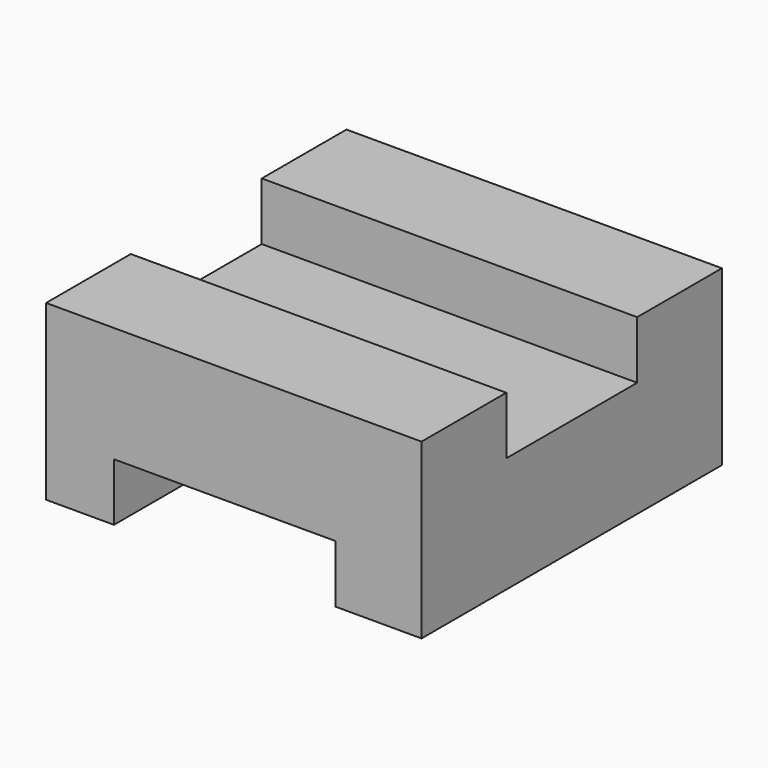
from build123d import *

# Parameters (mm, degrees)
F0_W     = 990.6
F0_H     = 990.6
F1_DEPTH = 152.4
F2_W     = 990.6
F2_H     = 279.4
F3_DEPTH = 152.4
F4_W     = 179.104452
F4_H     = 990.6
F4_W_2   = 227.295548
F5_DEPTH = 152.4


with BuildPart() as f1:
    # F0 (on Top) → F1 (new body)
    with BuildSketch(Plane.XY):
        Rectangle(F0_W, F0_H)
    extrude(amount=F1_DEPTH)

    # F2 (on face) → F3 (join)
    with BuildSketch(Plane.XY.offset(152.4)):
        with Locations((0, 355.6)):
            Rectangle(F2_W, F2_H)
        with Locations((0, -355.6)):
            Rectangle(F2_W, F2_H)
    extrude(amount=F3_DEPTH)

    # F4 (on face) → F5 (join)
    with BuildSketch(Plane(origin=(0, 0, 0), x_dir=(1, 0, 0), z_dir=(0, 0, -1))):
        with Locations((-405.747774, 0)):
            Rectangle(F4_W, F4_H)
        with Locations((381.652226, 0)):
            Rectangle(F4_W_2, F4_H)
    extrude(amount=F5_DEPTH)


solid = f1.part
